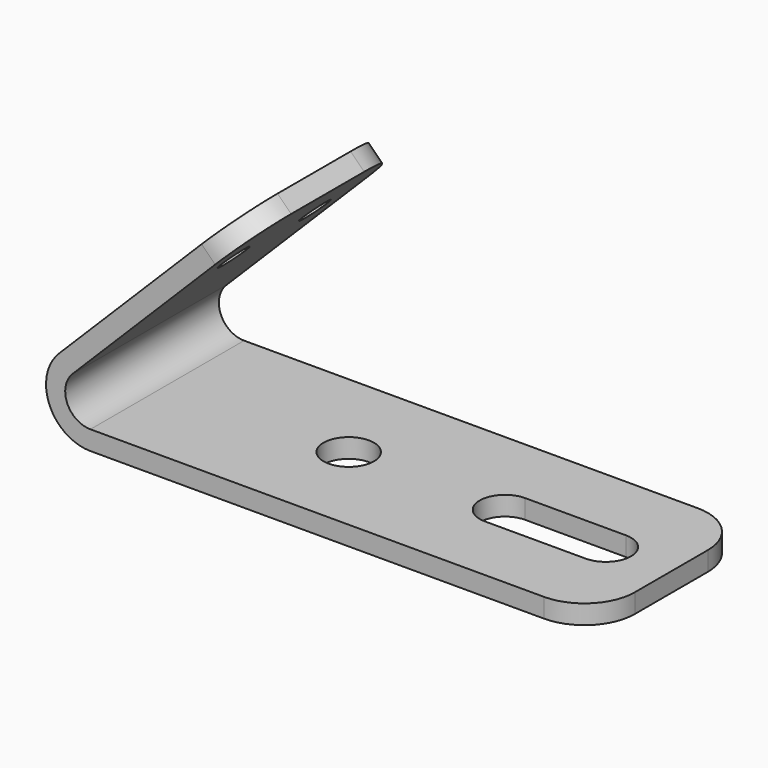
from build123d import *

# Parameters (mm, degrees)
F1_DEPTH = 19.05
F2_R     = 2.5
F3_DEPTH = 25
F4_R     = 1.5
F5_DEPTH = 7
F6_R     = 5


with BuildPart() as f1:
    # F0 (on Front) → F1 (new body)
    with BuildSketch(Plane.XZ):
        with BuildLine():
            Line((-35.4336, 25.188939), (-53.11127, 7.51127))
            ThreePointArc((-53.11127, 7.51127), (-54.06507, 2.716193), (-50, 0))
            Line((-50, 0), (0, 0))
            Line((0, 0), (0, 1.9))
            Line((0, 1.9), (-50, 1.9))
            ThreePointArc((-50, 1.9), (-52.309699, 3.443291), (-51.767767, 6.167767))
            Line((-51.767767, 6.167767), (-34.090097, 23.845436))
            Line((-34.090097, 23.845436), (-35.4336, 25.188939))
        make_face()
    extrude(amount=F1_DEPTH)

    # F2 (on face) → F3 (cut)
    with BuildSketch(Plane.XY.offset(1.9)):
        with Locations((-32, -9.525)):
            Circle(F2_R)
        with BuildLine():
            Line((-16.5, -12.025), (-6.5, -12.025))
            ThreePointArc((-6.5, -12.025), (-4, -9.525), (-6.5, -7.025))
            Line((-6.5, -7.025), (-16.5, -7.025))
            ThreePointArc((-16.5, -7.025), (-19, -9.525), (-16.5, -12.025))
        make_face()
    extrude(amount=-F3_DEPTH, mode=Mode.SUBTRACT)

    # F4 (on face) → F5 (cut)
    with BuildSketch(Plane(origin=(-30.31127, 0, 30.31127), x_dir=(0, -1, 0), z_dir=(-0.707107, 0, 0.707107))):
        with Locations((14.55, -14.744069)):
            Circle(F4_R)
        with Locations((4.5, -14.744069)):
            Circle(F4_R)
    extrude(amount=-F5_DEPTH, mode=Mode.SUBTRACT)

    # F6
    f6_edges = [f1.edges().sort_by_distance(p)[0] for p in [
        (0, -19.05, 0.95),
        (0, 0, 0.95),
        (-34.761849, -19.05, 24.517188),
        (-34.761849, 0, 24.517188),
    ]]
    fillet(f6_edges, radius=F6_R)


solid = f1.part
